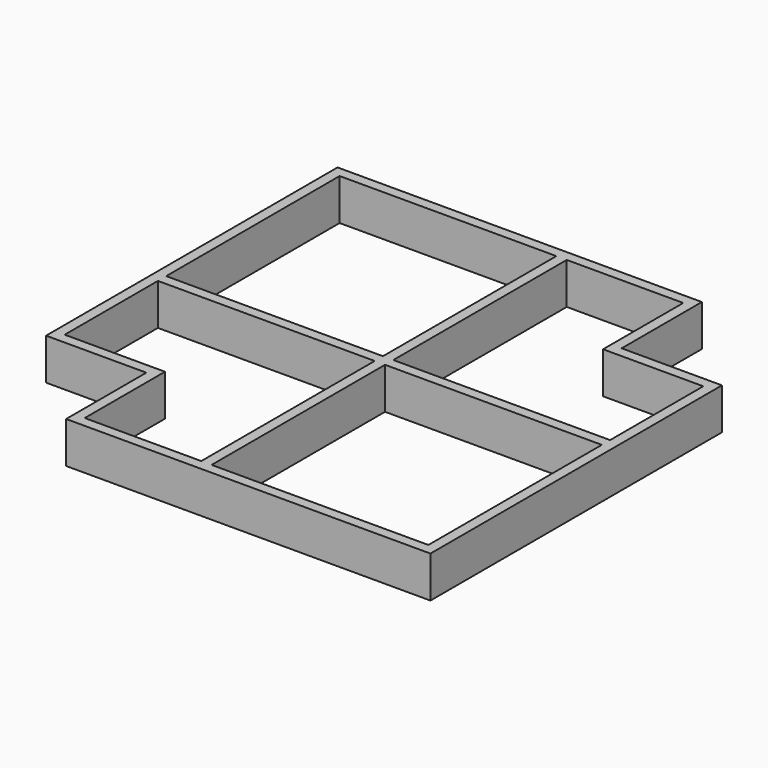
from build123d import *

# Parameters (mm, degrees)
F0_W     = 132.985286
F0_H     = 132.985286
F1_DEPTH = 25.4


with BuildPart() as f1:
    # F0 (on Top) → F1 (new body)
    with BuildSketch(Plane.XY):
        Polygon((84.181237, -55.154049), (84.181237, 6.35), (-139.335286, 6.35), (-139.335286, -217.166522), (-77.831237, -217.166522), (-77.831237, -278.670572), (145.685286, -278.670572), (145.685286, -55.154049), align=None)
        Polygon((0, -272.320572), (-71.481237, -272.320572), (-71.481237, -210.816522), (-132.985286, -210.816522), (-132.985286, -139.335286), (0, -139.335286), align=None, mode=Mode.SUBTRACT)
        with Locations((72.842643, -205.827929)):
            Rectangle(F0_W, F0_H, mode=Mode.SUBTRACT)
        with Locations((-66.492643, -66.492643)):
            Rectangle(F0_W, F0_H, mode=Mode.SUBTRACT)
        Polygon((6.35, -132.985286), (6.35, 0), (77.831237, 0), (77.831237, -61.504049), (139.335286, -61.504049), (139.335286, -132.985286), align=None, mode=Mode.SUBTRACT)
    extrude(amount=F1_DEPTH)


solid = f1.part
